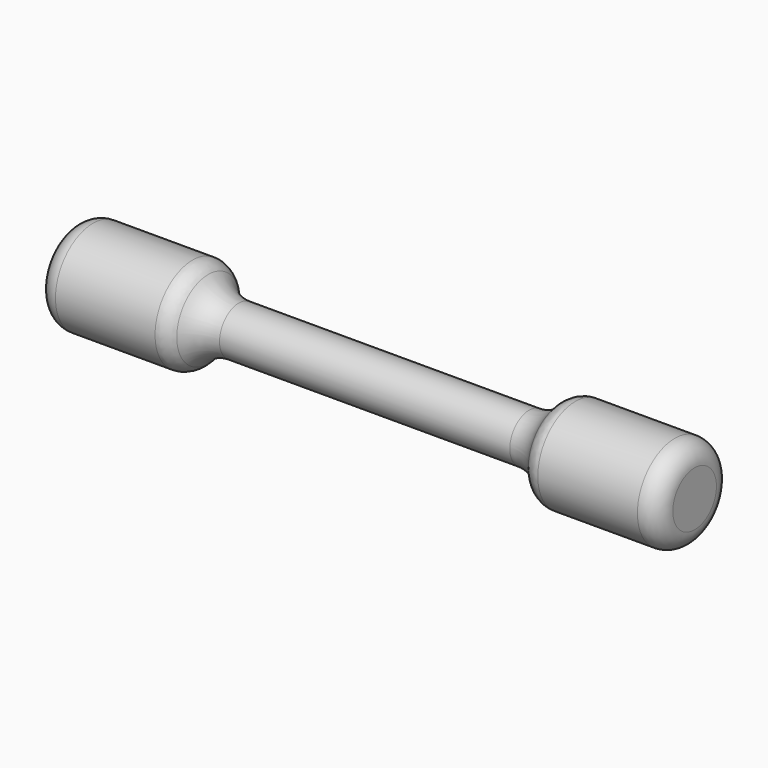
from build123d import *

# Parameters (mm, degrees)
F2_R = 5.08


with BuildPart() as f1:
    # F0 (on Front) → F1 (revolve)
    with BuildSketch(Plane.XZ):
        with BuildLine():
            Line((37.5, 6.25), (0, 6.25))
            Line((0, 6.25), (-37.5, 6.25))
            ThreePointArc((-37.5, 6.25), (-42.92127, 7.847034), (-46.610949, 12.128033))
            Line((-46.610949, 12.128033), (-80.26316, 12.128033))
            Line((-80.26316, 12.128033), (-80.26316, 0))
            Line((-80.26316, 0), (80.26316, 0))
            Line((80.26316, 0), (80.26316, 12.128033))
            Line((80.26316, 12.128033), (46.610949, 12.128033))
            ThreePointArc((46.610949, 12.128033), (42.92127, 7.847034), (37.5, 6.25))
        make_face()
    revolve(axis=Axis((0, 0, 0), (1, 0, 0)))

    # F2
    f2_edges = [f1.edges().sort_by_distance(p)[0] for p in [
        (-37.5, 0, -6.25),
        (-46.610949, 0, -12.128033),
        (-42.92127, 0, 7.847034),
        (46.610949, 0, -12.128033),
        (37.5, 0, -6.25),
        (-80.26316, 0, -12.128033),
        (80.26316, 0, -12.128033),
    ]]
    fillet(f2_edges, radius=F2_R)


solid = f1.part
